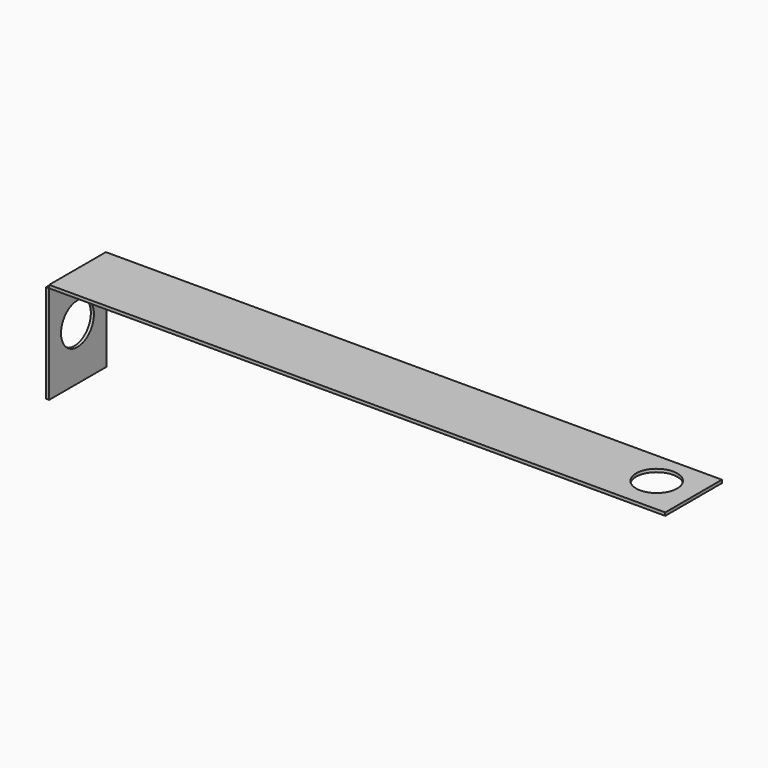
from build123d import *

# Parameters (mm, degrees)
F2_DEPTH = 0.1016
F1_W     = 2.372956
F1_H     = 3.240444
F1_R     = 0.678261
F3_DEPTH = 0.1016


with BuildPart() as f2:
    # F0 (on Top) → F2 (new body)
    with BuildSketch(Plane.XY):
        Polygon((0, 1.235092), (0, 0), (20.32, 0), (20.32, 2.3368), (0, 2.3368), align=None)
        with BuildLine():
            ThreePointArc((19.727959, 1.235092), (19.05, 0.557133), (18.372041, 1.235092))
            ThreePointArc((18.372041, 1.235092), (19.05, 1.913052), (19.727959, 1.235092))
        make_face(mode=Mode.SUBTRACT)
    extrude(amount=F2_DEPTH)

    # F1 (on Right) → F3 (join)
    with BuildSketch(Plane.YZ):
        with Locations((1.186478, -1.620222)):
            Rectangle(F1_W, F1_H)
        with Locations((1.167122, -1.5018)):
            Circle(F1_R, mode=Mode.SUBTRACT)
    extrude(amount=-F3_DEPTH)


solid = f2.part
